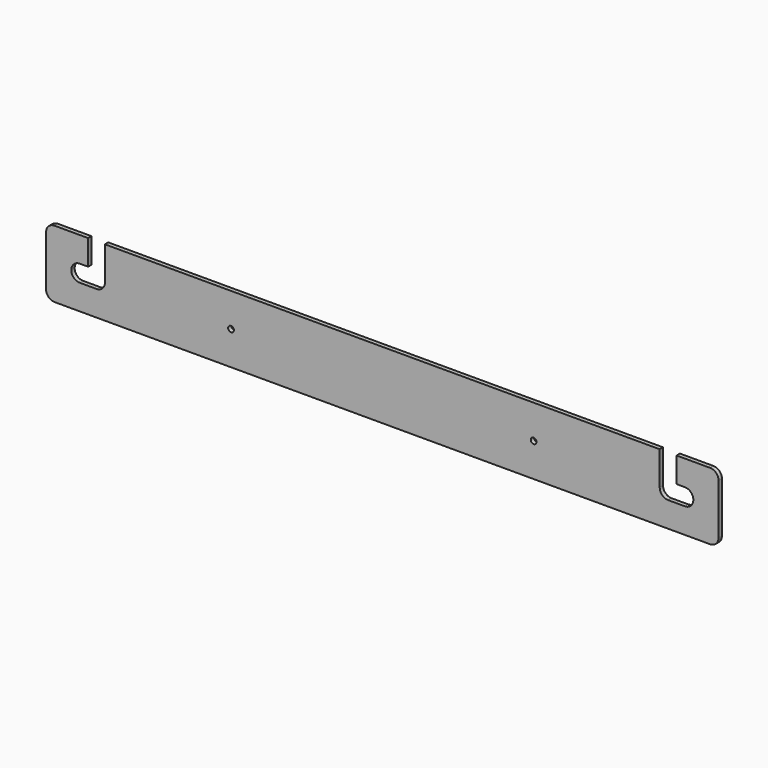
from build123d import *

# Parameters (mm, degrees)
F0_R     = 2.159
F1_DEPTH = 3.175


with BuildPart() as f1:
    # F0 (on Front) → F1 (new body)
    with BuildSketch(Plane.XZ):
        with BuildLine():
            Line((-247.65, -25.4), (247.65, -25.4))
            ThreePointArc((247.65, -25.4), (252.140128, -23.540128), (254, -19.05))
            Line((254, -19.05), (254, 19.05))
            ThreePointArc((254, 19.05), (252.140128, 23.540128), (247.65, 25.4))
            Line((247.65, 25.4), (222.25, 25.4))
            Line((222.25, 25.4), (222.25, 6.35))
            Line((222.25, 6.35), (228.6, 6.35))
            ThreePointArc((228.6, 6.35), (234.95, 0), (228.6, -6.35))
            Line((228.6, -6.35), (215.9, -6.35))
            ThreePointArc((215.9, -6.35), (211.370438, -4.450345), (209.550988, 0.112025))
            Line((209.550988, 0.112025), (209.550988, 25.4))
            Line((209.550988, 25.4), (-209.550988, 25.4))
            Line((-209.550988, 25.4), (-209.550988, 0.112025))
            ThreePointArc((-209.550988, 0.112025), (-211.370438, -4.450345), (-215.9, -6.35))
            Line((-215.9, -6.35), (-228.6, -6.35))
            ThreePointArc((-228.6, -6.35), (-234.95, 0), (-228.6, 6.35))
            Line((-228.6, 6.35), (-222.25, 6.35))
            Line((-222.25, 6.35), (-222.25, 25.4))
            Line((-222.25, 25.4), (-247.65, 25.4))
            ThreePointArc((-247.65, 25.4), (-252.140128, 23.540128), (-254, 19.05))
            Line((-254, 19.05), (-254, -19.05))
            ThreePointArc((-254, -19.05), (-252.140128, -23.540128), (-247.65, -25.4))
        make_face()
        with Locations((-114.3, 0)):
            Circle(F0_R, mode=Mode.SUBTRACT)
        with Locations((114.3, 0)):
            Circle(F0_R, mode=Mode.SUBTRACT)
    extrude(amount=F1_DEPTH)


solid = f1.part
